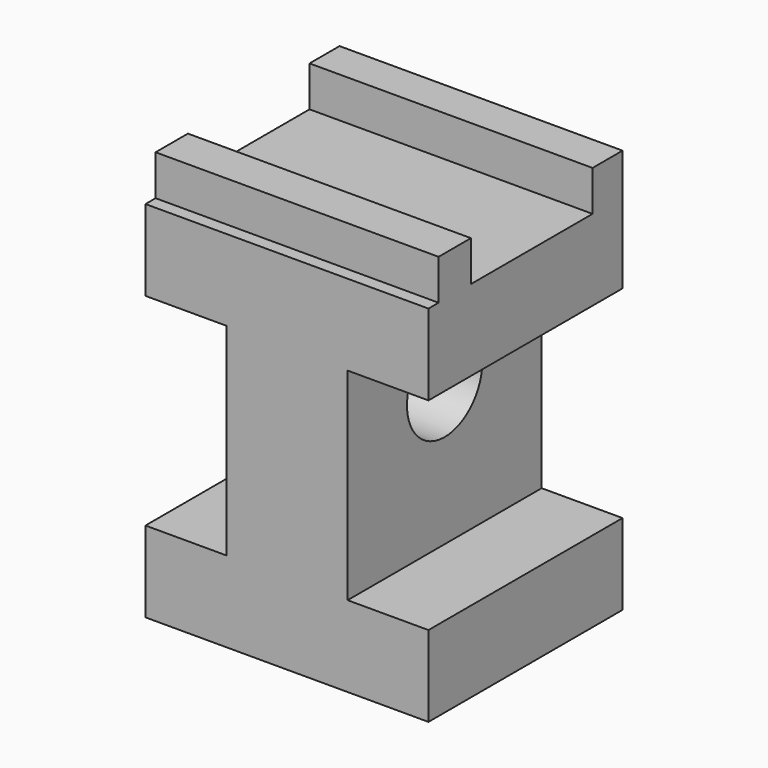
from build123d import *

# Parameters (mm, degrees)
F1_DEPTH = 76.2
F2_R     = 14.796786
F3_DEPTH = 127
F4_W     = 88.9
F4_H     = 11.771857
F5_DEPTH = 12.7
F4_H_2   = 12.7
F6_DEPTH = 12.7


with BuildPart() as f1:
    # F0 (on Front) → F1 (new body)
    with BuildSketch(Plane.XZ):
        Polygon((-46.461856, -26.057273), (42.438144, -26.057273), (42.438144, -0.657273), (17.038144, -0.657273), (17.038144, 62.842727), (42.438144, 62.842727), (42.438144, 88.242727), (-46.461856, 88.242727), (-46.461856, 62.842727), (-21.061856, 62.842727), (-21.061856, -0.657273), (-46.461856, -0.657273), align=None)
    extrude(amount=F1_DEPTH)

    # F2 (on face) → F3 (cut)
    with BuildSketch(Plane.YZ.offset(17.038144)):
        with Locations((-38.1, 43.754952)):
            Circle(F2_R)
    extrude(amount=-F3_DEPTH, mode=Mode.SUBTRACT)

    # F4 (on face) → F5 (join)
    with BuildSketch(Plane.XY.offset(88.242727)):
        with Locations((-2.011856, -5.885928)):
            Rectangle(F4_W, F4_H)
    extrude(amount=F5_DEPTH)

    # F4 (on face) → F6 (join)
    with BuildSketch(Plane.XY.offset(88.242727)):
        with Locations((-2.011856, -65.875459)):
            Rectangle(F4_W, F4_H_2)
    extrude(amount=F6_DEPTH)


solid = f1.part
